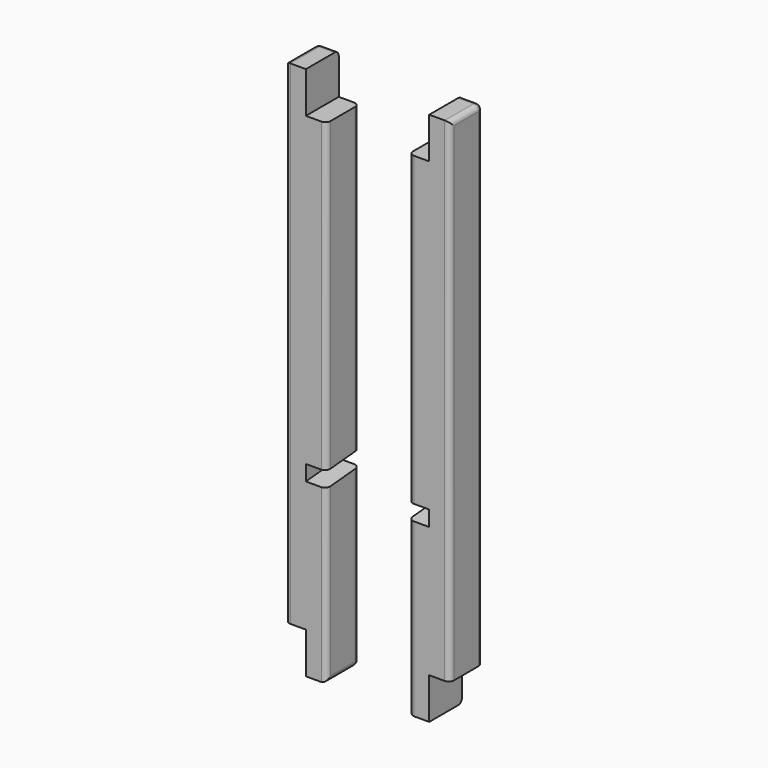
from build123d import *

# Parameters (mm, degrees)
F0_W          = 25.4
F0_H          = 50.8
F1_DEPTH      = 609.6
F2_DEPTH      = 50.8
F2_DEPTH_BACK = 558.8
F4_DEPTH      = 25.4
F5_R          = 6.35


with BuildPart() as f1:
    # F0 (on Top) → F1 (new body)
    with BuildSketch(Plane.XY):
        with Locations((12.7, 25.4)):
            Rectangle(F0_W, F0_H)
    extrude(amount=F1_DEPTH)

    # F0 (on Top) → F2 (join, two sides)
    with BuildSketch(Plane.XY) as f2_sk:
        with Locations((-12.7, 25.4)):
            Rectangle(F0_W, F0_H)
    extrude(amount=-F2_DEPTH)
    extrude(f2_sk.sketch, amount=F2_DEPTH_BACK)

    # F3 (on Right) → F4 (cut)
    with BuildSketch(Plane.YZ):
        Polygon((0, 180.2135758929), (0, 161.1635758929), (50.8, 165.608), (50.8, 184.658), align=None)
    extrude(amount=-F4_DEPTH, mode=Mode.SUBTRACT)

    # F5
    f5_edges = [f1.edges().sort_by_distance(p)[0] for p in [
        (-25.4, 50.8, 57.404),
        (-25.4, 50.8, 371.729),
        (-12.7, 50.8, -50.8),
        (-25.4, 25.4, -50.8),
        (-25.4, 0, 369.506788),
        (-25.4, 0, 55.181788),
        (25.4, 0, 304.8),
        (25.4, 50.8, 304.8),
        (25.4, 25.4, 609.6),
        (12.7, 50.8, 609.6),
    ]]
    fillet(f5_edges, radius=F5_R)


with BuildPart() as f7_1:
    # F7: instance of F1
    add(f1.part.mirror(Plane.YZ.offset(-76.2)))


solid = Compound([f1.part, f7_1.part])
